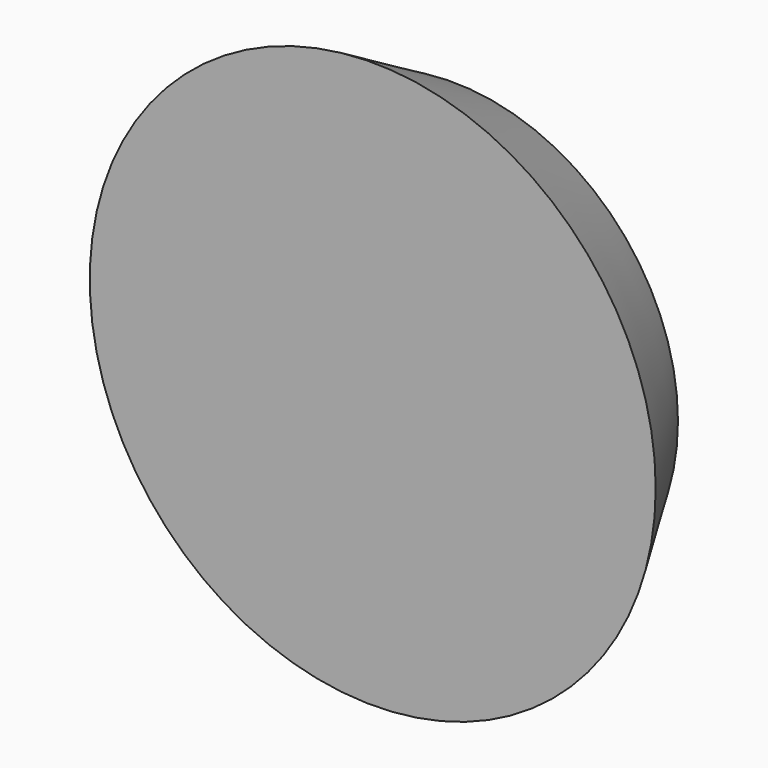
from build123d import *


with BuildPart() as part:
    # Sketch → Revolution (revolve)
    with BuildSketch(Plane.XY):
        with BuildLine():
            ThreePointArc((0, 5), (12.264622, 6.417697), (23.882386, 10.596017))
            Line((30, 0), (23.882386, 10.596017))
            Line((0, 0), (30, 0))
            Line((0, 5), (0, 0))
        make_face()
    revolve(axis=Axis((0, 0, 0), (0, 1, 0)))


solid = part.part
